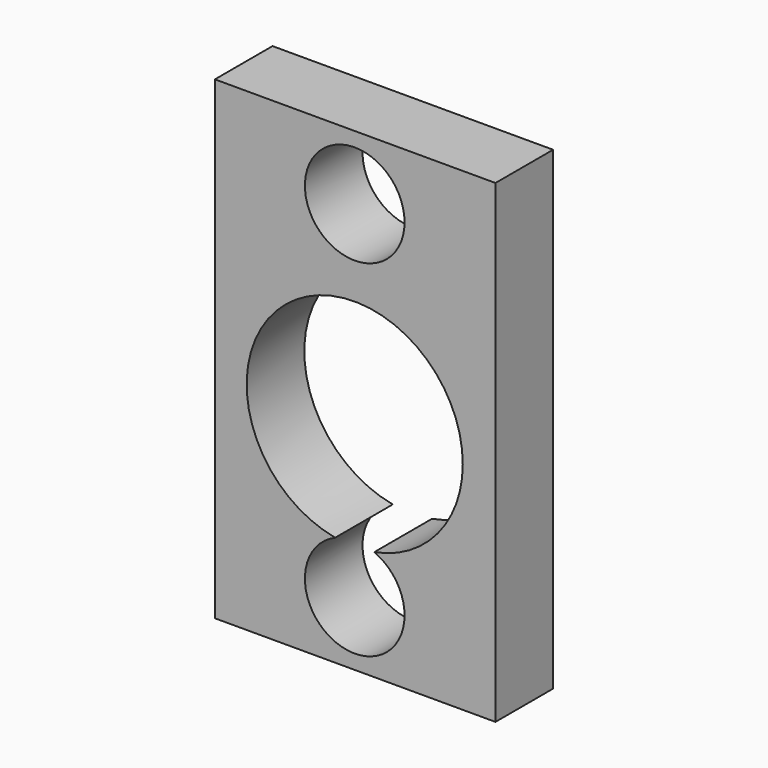
from build123d import *

# Parameters (mm, degrees)
F0_W     = 98.944682
F0_H     = 167.318415
F0_R     = 17.573737
F1_DEPTH = 25.4


with BuildPart() as f1:
    # F0 (on Front) → F1 (new body)
    with BuildSketch(Plane.XZ):
        with Locations((0.164358, 7.368268)):
            Rectangle(F0_W, F0_H)
        with BuildLine():
            ThreePointArc((-6.892271, -37.47141), (-24.382519, 29.276318), (38.1, 0))
            ThreePointArc((38.1, 0), (29.276318, -24.382519), (6.892271, -37.47141))
            ThreePointArc((6.892271, -37.47141), (14.662183, -43.949239), (17.573737, -53.637203))
            ThreePointArc((17.573737, -53.637203), (-9.687964, -68.299385), (-6.892271, -37.47141))
        make_face(mode=Mode.SUBTRACT)
        with Locations((0, 68.373737)):
            Circle(F0_R, mode=Mode.SUBTRACT)
    extrude(amount=F1_DEPTH)


solid = f1.part
